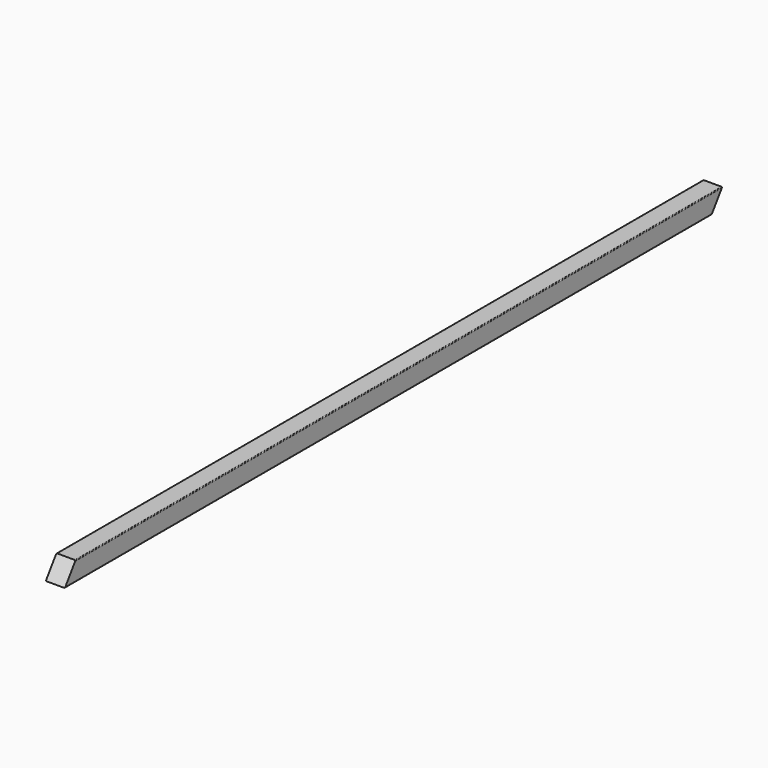
from build123d import *

# Parameters (mm, degrees)
F1_DEPTH = 508
F3_DEPTH = 25.4


with BuildPart() as f1:
    # F0 (on Front) → F1 (new body, symmetric)
    with BuildSketch(Plane.XZ):
        with BuildLine():
            Line((8.763, 9.525), (-8.763, 9.525))
            ThreePointArc((-8.763, 9.525), (-9.301815, 9.301815), (-9.525, 8.763))
            Line((-9.525, 8.763), (-9.525, -8.763))
            ThreePointArc((-9.525, -8.763), (-9.301815, -9.301815), (-8.763, -9.525))
            Line((-8.763, -9.525), (8.763, -9.525))
            ThreePointArc((8.763, -9.525), (9.301815, -9.301815), (9.525, -8.763))
            Line((9.525, -8.763), (9.525, 8.763))
            ThreePointArc((9.525, 8.763), (9.301815, 9.301815), (8.763, 9.525))
        make_face()
    extrude(amount=F1_DEPTH, both=True)

    # F2 (on Right) → F3 (cut, symmetric)
    with BuildSketch(Plane.YZ):
        Polygon((-508, 24.218117), (-508, -9.525), (-484.372815, 24.218117), align=None)
        Polygon((508, -9.525), (508, 290.101111), (298.199538, -9.525), align=None)
    extrude(amount=F3_DEPTH, both=True, mode=Mode.SUBTRACT)


solid = f1.part
